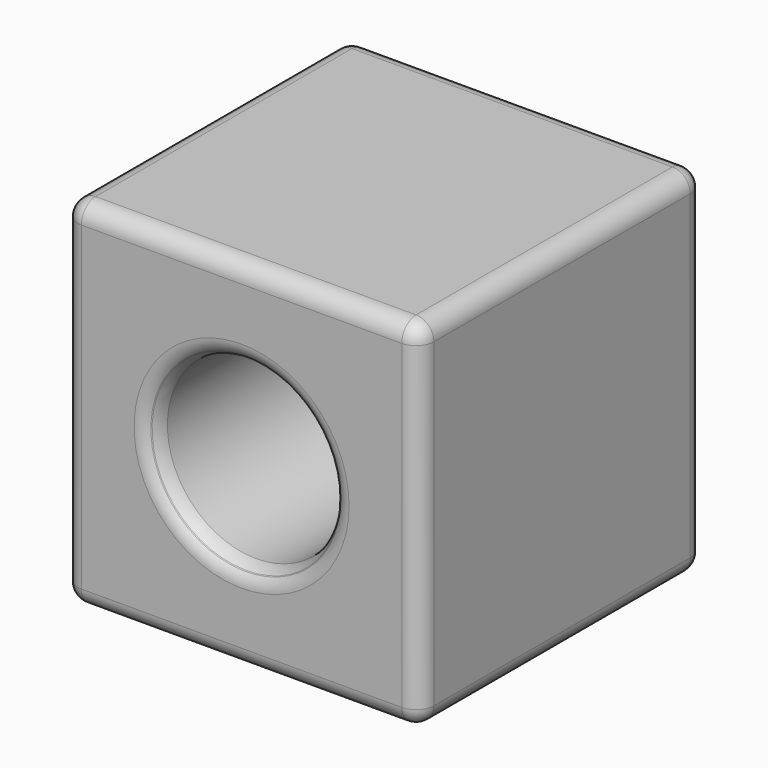
from build123d import *

# Parameters (mm, degrees)
F0_W     = 101.6
F0_H     = 101.6
F1_DEPTH = 50.8
F2_R     = 25.4
F3_DEPTH = 101.601
F4_SIZE  = 3.175
F5_R     = 5.08


with BuildPart() as f1:
    # F0 (on Front) → F1 (new body, symmetric)
    with BuildSketch(Plane.XZ):
        Rectangle(F0_W, F0_H)
    extrude(amount=F1_DEPTH, both=True)

    # F2 (on face) → F3 (cut, through all)
    with BuildSketch(Plane.XZ.offset(50.8)):
        Circle(F2_R)
    extrude(amount=-F3_DEPTH, mode=Mode.SUBTRACT)

    # F4
    f4_edges = [f1.edges().sort_by_distance(p)[0] for p in [
        (-25.4, -50.8, 0),
        (-25.4, 50.8, 0),
    ]]
    chamfer(f4_edges, length=F4_SIZE)

    # F5
    f5_edges = [f1.edges().sort_by_distance(p)[0] for p in [
        (50.8, 0, -50.8),
        (50.8, 0, 50.8),
        (0, 50.8, 50.8),
        (-50.8, 0, 50.8),
        (0, -50.8, 50.8),
        (-50.8, 0, -50.8),
        (0, 50.8, -50.8),
        (0, -50.8, -50.8),
        (-50.8, 50.8, 0),
        (-50.8, -50.8, 0),
        (50.8, 50.8, 0),
        (50.8, -50.8, 0),
        (26.9875, 49.2125, 0),
        (-28.575, 50.8, 0),
        (-25.4, 47.625, 0),
        (25.4, 0, 0),
        (-25.4, -47.625, 0),
        (26.9875, -49.2125, 0),
        (-28.575, -50.8, 0),
    ]]
    fillet(f5_edges, radius=F5_R)


solid = f1.part
